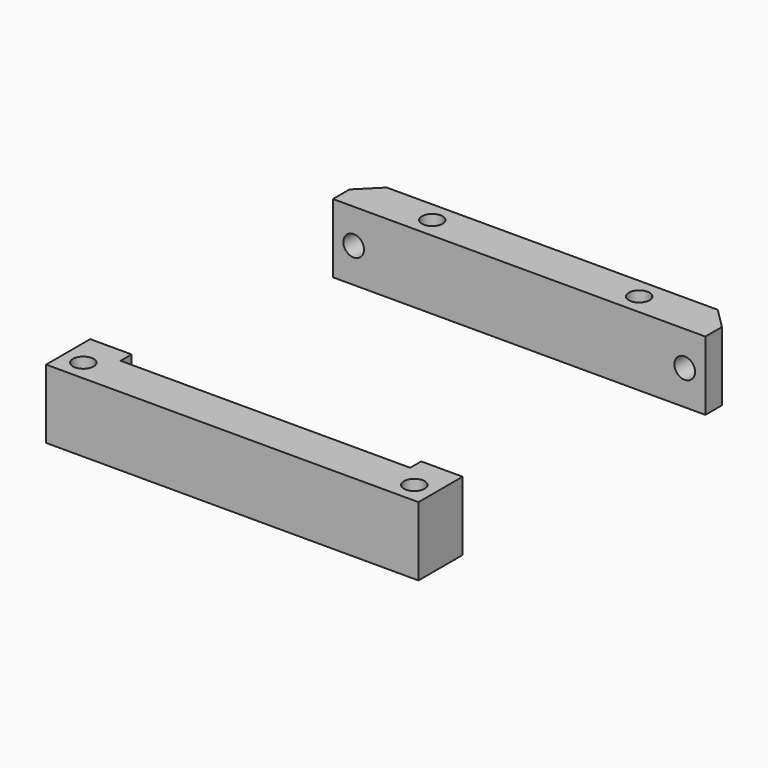
from build123d import *

# Parameters (mm, degrees)
CYLINDER2665_R     = 1.5
CYLINDER2665_DEPTH = 50
CYLINDER2664_R     = 1.5
CYLINDER2664_DEPTH = 50
CYLINDER2663_R     = 3
CYLINDER2663_DEPTH = 3
CYLINDER2662_R     = 3
CYLINDER2662_DEPTH = 3
CYLINDER2668_R     = 1.5
CYLINDER2668_DEPTH = 60
CYLINDER2669_R     = 1.5
CYLINDER2669_DEPTH = 60
CYLINDER2666_R     = 1.5
CYLINDER2666_DEPTH = 60
CYLINDER2667_R     = 1.5
CYLINDER2667_DEPTH = 60
BOX903_W           = 56
BOX903_H           = 44
BOX903_DEPTH       = 10
BOX898_W           = 42
BOX898_H           = 46
BOX898_DEPTH       = 50
BOX897_W           = 54
BOX897_H           = 58
BOX897_DEPTH       = 10
CHAMFER131_SIZE    = 3


with BuildPart() as obj1:
    # Cylinder2665 → Cylinder2665 (new body)
    with BuildSketch(Plane(origin=(24, 140, 72), x_dir=(1, 0, 0), z_dir=(0, -1, 0))):
        Circle(CYLINDER2665_R)
    extrude(amount=CYLINDER2665_DEPTH)


with BuildPart() as compound1177:
    # Cylinder2664 → Cylinder2664 (new body)
    with BuildSketch(Plane(origin=(-24, 140, 72), x_dir=(1, 0, 0), z_dir=(0, -1, 0))):
        Circle(CYLINDER2664_R)
    extrude(amount=CYLINDER2664_DEPTH)

    # Compound1177: union obj1
    add(obj1.part)


with BuildPart() as compound1177_1:
    # Compound1177 placement: moved
    add(compound1177.part.moved(Location((0, 0, 8))))


with BuildPart() as obj2:
    # Cylinder2663 → Cylinder2663 (new body)
    with BuildSketch(Plane(origin=(24, 128, 72), x_dir=(1, 0, 0), z_dir=(0, -1, 0))):
        Circle(CYLINDER2663_R)
    extrude(amount=CYLINDER2663_DEPTH)


with BuildPart() as compound1175:
    # Cylinder2662 → Cylinder2662 (new body)
    with BuildSketch(Plane(origin=(-24, 128, 72), x_dir=(1, 0, 0), z_dir=(0, -1, 0))):
        Circle(CYLINDER2662_R)
    extrude(amount=CYLINDER2662_DEPTH)

    # Compound1175: union obj2
    add(obj2.part)


with BuildPart() as compound1175_1:
    # Compound1175 placement: moved
    add(compound1175.part.moved(Location((0, 0, 8))))


with BuildPart() as obj3:
    # Cylinder2668 → Cylinder2668 (new body)
    with BuildSketch(Plane(origin=(-24, 73, -80), x_dir=(1, 0, 0), z_dir=(0, 0, 1))):
        Circle(CYLINDER2668_R)
    extrude(amount=CYLINDER2668_DEPTH)


with BuildPart() as obj4:
    # Cylinder2669 → Cylinder2669 (new body)
    with BuildSketch(Plane(origin=(-15, 125, -80), x_dir=(1, 0, 0), z_dir=(0, 0, 1))):
        Circle(CYLINDER2669_R)
    extrude(amount=CYLINDER2669_DEPTH)


with BuildPart() as obj5:
    # Cylinder2666 → Cylinder2666 (new body)
    with BuildSketch(Plane(origin=(15, 125, -80), x_dir=(1, 0, 0), z_dir=(0, 0, 1))):
        Circle(CYLINDER2666_R)
    extrude(amount=CYLINDER2666_DEPTH)


with BuildPart() as compound1178:
    # Cylinder2667 → Cylinder2667 (new body)
    with BuildSketch(Plane(origin=(24, 73, -80), x_dir=(1, 0, 0), z_dir=(0, 0, 1))):
        Circle(CYLINDER2667_R)
    extrude(amount=CYLINDER2667_DEPTH)

    # Compound1178: union obj3, obj4, obj5
    add(obj3.part)
    add(obj4.part)
    add(obj5.part)


with BuildPart() as compound1178_1:
    # Compound1178 placement: moved
    add(compound1178.part.moved(Location((0, 0, 120))))


with BuildPart() as krychle902:
    # Box903 → Box903 (new body)
    with BuildSketch(Plane(origin=(-28, 78, 75), x_dir=(1, 0, 0), z_dir=(0, 0, 1))):
        with Locations((28, 22)):
            Rectangle(BOX903_W, BOX903_H)
    extrude(amount=BOX903_DEPTH)


with BuildPart() as krychle897:
    # Box898 → Box898 (new body)
    with BuildSketch(Plane(origin=(-21, 76, 38), x_dir=(1, 0, 0), z_dir=(0, 0, 1))):
        with Locations((21, 23)):
            Rectangle(BOX898_W, BOX898_H)
    extrude(amount=BOX898_DEPTH)


with BuildPart() as cut992:
    # Box897 → Box897 (new body)
    with BuildSketch(Plane(origin=(-27, 70, 75), x_dir=(1, 0, 0), z_dir=(0, 0, 1))):
        with Locations((27, 29)):
            Rectangle(BOX897_W, BOX897_H)
    extrude(amount=BOX897_DEPTH)

    # Cut983: cut Krychle897
    add(krychle897.part, mode=Mode.SUBTRACT)

    # Cut984: cut Krychle902
    add(krychle902.part, mode=Mode.SUBTRACT)

    # Cut985: cut Compound1178
    add(compound1178_1.part, mode=Mode.SUBTRACT)

    # Chamfer131
    chamfer131_edges = [cut992.edges().sort_by_distance(p)[0] for p in [
        (-27, 128, 80),
        (27, 128, 80),
    ]]
    chamfer(chamfer131_edges, length=CHAMFER131_SIZE)

    # Cut991: cut Compound1175
    add(compound1175_1.part, mode=Mode.SUBTRACT)

    # Cut992: cut Compound1177
    add(compound1177_1.part, mode=Mode.SUBTRACT)


solid = cut992.part
